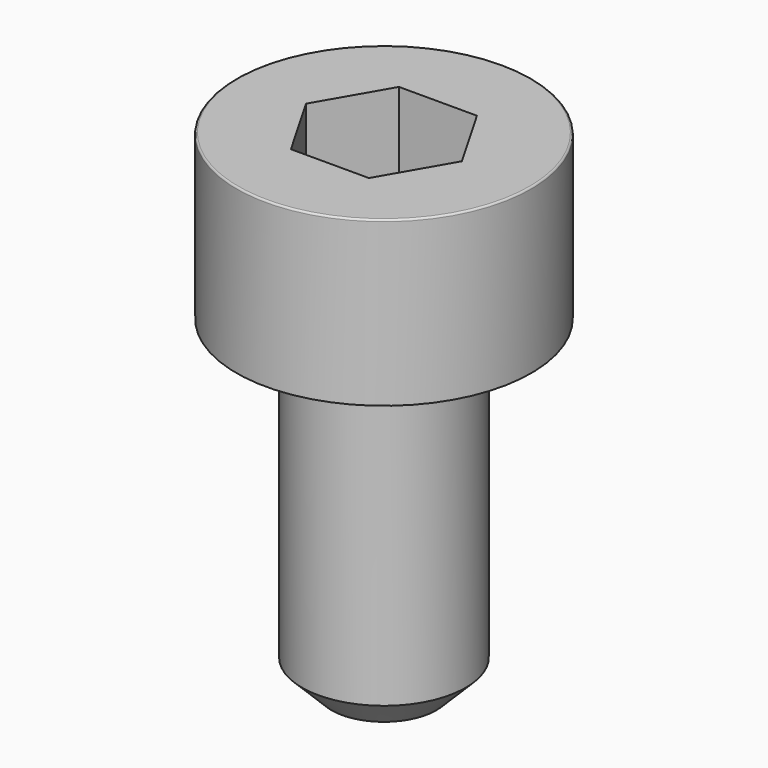
from build123d import *

# Parameters (mm, degrees)
POCKET_DEPTH = 2.06


with BuildPart() as part:
    # Sketch → Revolve (revolve)
    with BuildSketch(Plane.YZ):
        with BuildLine():
            Line((1.249, 0), (2.25, 0))
            Line((2.25, 0), (2.25, 2.47229))
            ThreePointArc((2.25, 2.47229), (2.241884, 2.491884), (2.22229, 2.5))
            Line((2.22229, 2.5), (0, 2.5))
            Line((0, -5), (0, 2.5))
            Line((0.8, -5), (0, -5))
            Line((1.25, -4.55), (0.8, -5))
            Line((1.25, -0.2), (1.25, -4.55))
            Line((1.249, 0), (1.25, -0.2))
        make_face()
    revolve(axis=Axis((0, 0, 0), (0, 0, 1)))

    # Sketch001 → Pocket (cut)
    with BuildSketch(Plane.XY.offset(2.5)):
        Polygon((1.189342, 0), (0.594671, 1.03), (-0.594671, 1.03), (-1.189342, 0), (-0.594671, -1.03), (0.594671, -1.03), align=None)
    extrude(amount=-POCKET_DEPTH, mode=Mode.SUBTRACT)


solid = part.part
